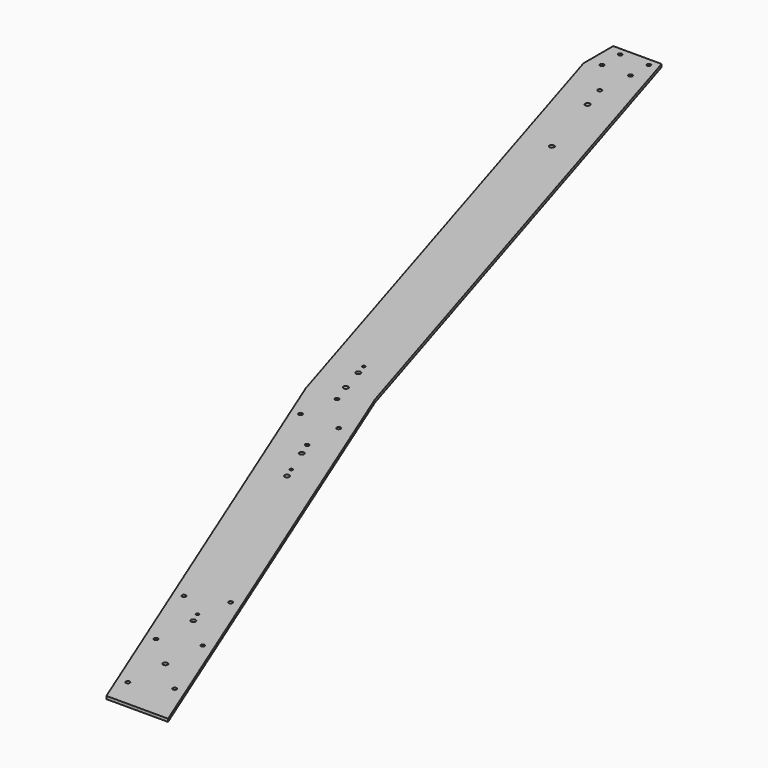
from build123d import *

# Parameters (mm, degrees)
F0_R     = 2.05
F0_R_2   = 2.5
F0_R_3   = 1.5
F1_DEPTH = 3
F2_R     = 2.05
F3_DEPTH = 25
F5_DEPTH = 25


with BuildPart() as f1:
    # F0 (on Top) → F1 (new body)
    with BuildSketch(Plane.XY):
        Polygon((-64.712085, 0), (0, 0), (-221.649493, 548.601745), (-410, 1160), (-472.782601, 1160), (-278.237843, 528.494797), align=None)
        with Locations((-246.249673, 529.405314)):
            Circle(F0_R, mode=Mode.SUBTRACT)
        with Locations((-253.471547, 550)):
            Circle(F0_R_2, mode=Mode.SUBTRACT)
        with Locations((-261.715064, 576.759006)):
            Circle(F0_R_2, mode=Mode.SUBTRACT)
        with Locations((-125.984579, 178.349417)):
            Circle(F0_R, mode=Mode.SUBTRACT)
        with Locations((-66.047524, 30)):
            Circle(F0_R, mode=Mode.SUBTRACT)
        with Locations((-96.016051, 104.174708)):
            Circle(F0_R, mode=Mode.SUBTRACT)
        with Locations((-62.488111, 74.579486)):
            Circle(F0_R_2, mode=Mode.SUBTRACT)
        with Locations((-28.96017, 44.984264)):
            Circle(F0_R, mode=Mode.SUBTRACT)
        with Locations((-58.928697, 119.158972)):
            Circle(F0_R, mode=Mode.SUBTRACT)
        with Locations((-96.951917, 159.880401)):
            Circle(F0_R_3, mode=Mode.SUBTRACT)
        with Locations((-92.456638, 148.754194)):
            Circle(F0_R_2, mode=Mode.SUBTRACT)
        with Locations((-88.897225, 193.33368)):
            Circle(F0_R, mode=Mode.SUBTRACT)
        with Locations((-192.851205, 397.239467)):
            Circle(F0_R_2, mode=Mode.SUBTRACT)
        with Locations((-197.346484, 408.365674)):
            Circle(F0_R_3, mode=Mode.SUBTRACT)
        with Locations((-214.408113, 450.594686)):
            Circle(F0_R, mode=Mode.SUBTRACT)
        with Locations((-208.584682, 436.181189)):
            Circle(F0_R_2, mode=Mode.SUBTRACT)
        with Locations((-265.248001, 588.227152)):
            Circle(F0_R_3, mode=Mode.SUBTRACT)
        with Locations((-388.900768, 989.612245)):
            Circle(F0_R_2, mode=Mode.SUBTRACT)
        with Locations((-420.402782, 1091.869876)):
            Circle(F0_R, mode=Mode.SUBTRACT)
        with Locations((-412.453676, 1066.066549)):
            Circle(F0_R_2, mode=Mode.SUBTRACT)
    extrude(amount=F1_DEPTH)

    # F2 (on face) → F3 (cut)
    with BuildSketch(Plane.XY.offset(3)):
        with Locations((-252.937843, 490)):
            Circle(F2_R)
        with Locations((-212.937843, 490)):
            Circle(F2_R)
        with Locations((-447.05, 1152)):
            Circle(F2_R)
        with Locations((-417.05, 1152)):
            Circle(F2_R)
        with Locations((-447.05, 1128)):
            Circle(F2_R)
        with Locations((-417.05, 1128)):
            Circle(F2_R)
    extrude(amount=-F3_DEPTH, mode=Mode.SUBTRACT)

    # F4 (on face) → F5 (cut)
    with BuildSketch(Plane.XY.offset(3)):
        Polygon((-460.782601, 1121.047203), (-460.782601, 1160), (-472.782601, 1160), align=None)
    extrude(amount=-F5_DEPTH, mode=Mode.SUBTRACT)


solid = f1.part
